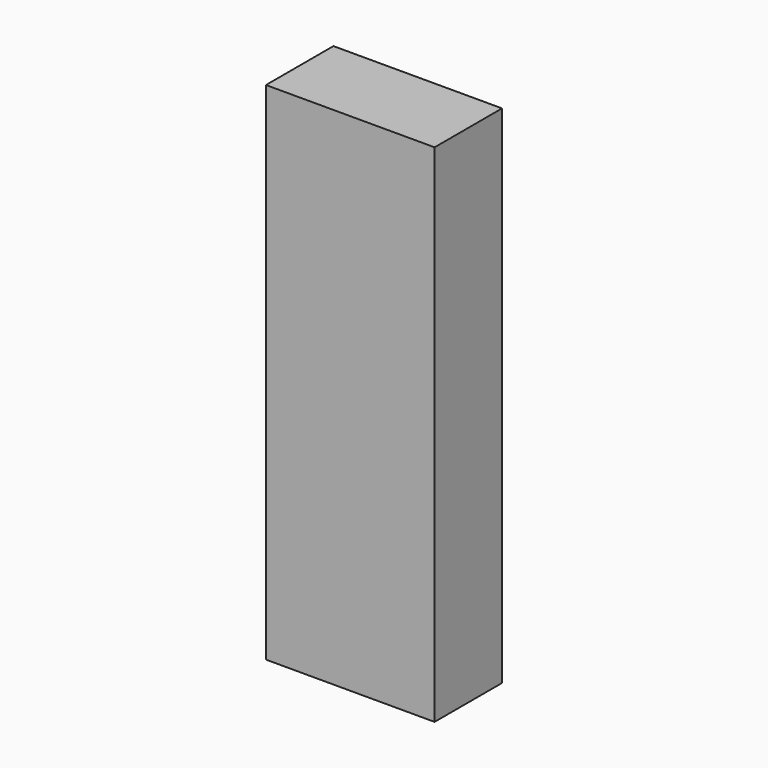
from build123d import *

# Parameters (mm, degrees)
SKETCH_W  = 20
SKETCH_H  = 10
PAD_DEPTH = 60


with BuildPart() as part:
    # Sketch → Pad (new body)
    with BuildSketch(Plane.XY):
        Rectangle(SKETCH_W, SKETCH_H)
    extrude(amount=PAD_DEPTH)


solid = part.part
